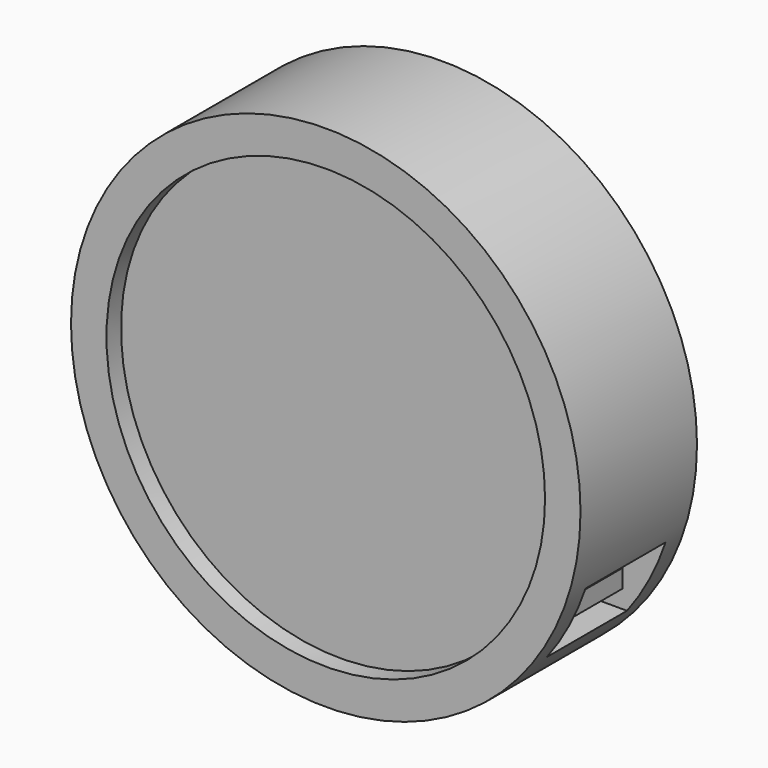
from build123d import *

# Parameters (mm, degrees)
F0_R      = 177.8
F1_DEPTH  = 101.6
F2_R      = 153.042574
F3_DEPTH  = 12.7
F4_R      = 153.04262
F5_DEPTH  = 12.7
F7_W      = 69.85
F7_H      = 50.8
F8_DEPTH  = 63.5
F10_W     = 12.7
F10_H     = 12.7
F11_DEPTH = 31.75
F12_W     = 6.35
F12_H     = 12.7
F13_DEPTH = 19.05
F14_W     = 6.35
F14_H     = 12.7
F15_DEPTH = 19.05


with BuildPart() as f1:
    # F0 (on Front) → F1 (new body)
    with BuildSketch(Plane.XZ):
        Circle(F0_R)
    extrude(amount=-F1_DEPTH)

    # F2 (on face) → F3 (cut)
    with BuildSketch(Plane(origin=(0, 101.6, 0), x_dir=(-1, 0, 0), z_dir=(0, 1, 0))):
        Circle(F2_R)
    extrude(amount=-F3_DEPTH, mode=Mode.SUBTRACT)

    # F4 (on face) → F5 (cut)
    with BuildSketch(Plane.XZ):
        Circle(F4_R)
    extrude(amount=-F5_DEPTH, mode=Mode.SUBTRACT)

    # F7 (on offset) → F8 (cut)
    with BuildSketch(Plane.YZ.offset(177.8)):
        with Locations((50.85966, -82.082137)):
            Rectangle(F7_W, F7_H)
    extrude(amount=-F8_DEPTH, mode=Mode.SUBTRACT)

    # F10 (on offset) → F11 (join)
    with BuildSketch(Plane.YZ.offset(114.3)):
        with Locations((51.032025, -82.255941)):
            Rectangle(F10_W, F10_H)
    extrude(amount=F11_DEPTH)

    # F12 (on face) → F13 (join)
    with BuildSketch(Plane.XZ.offset(-44.682025)):
        with Locations((142.875, -82.255941)):
            Rectangle(F12_W, F12_H)
    extrude(amount=F13_DEPTH)

    # F14 (on face) → F15 (join)
    with BuildSketch(Plane(origin=(0, 57.382025, 0), x_dir=(-1, 0, 0), z_dir=(0, 1, 0))):
        with Locations((-142.875, -82.255941)):
            Rectangle(F14_W, F14_H)
    extrude(amount=F15_DEPTH)


solid = f1.part
